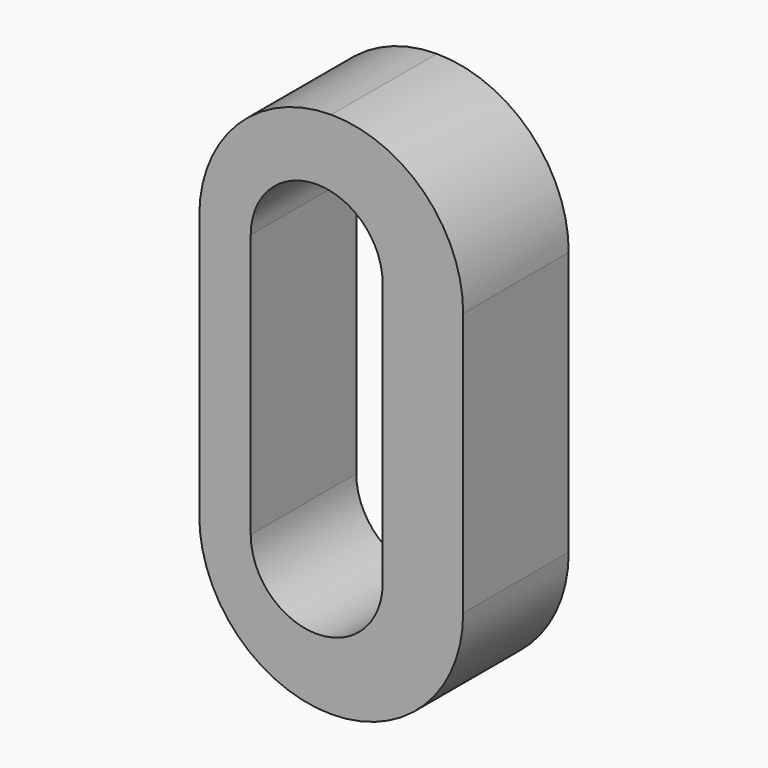
from build123d import *

# Parameters (mm, degrees)
F0_W     = 12.7
F0_H     = 25.4
F1_DEPTH = 6.35
F3_DEPTH = 254
F4_W     = 6.35
F4_H     = 12.7
F5_DEPTH = 254
F8_DEPTH = 25374.6


with BuildPart() as f1:
    # F0 (on Front) → F1 (new body)
    with BuildSketch(Plane.XZ):
        with Locations((-6.35, 12.7)):
            Rectangle(F0_W, F0_H)
    extrude(amount=F1_DEPTH)

    # F2 (on face) → F3 (cut)
    with BuildSketch(Plane.XZ.offset(6.35)):
        with BuildLine():
            Line((-12.7, 25.4), (-12.7, 19.05))
            ThreePointArc((-12.7, 19.05), (-10.8401280605, 23.5401280605), (-6.35, 25.4))
            Line((-6.35, 25.4), (-12.7, 25.4))
        make_face()
        with BuildLine():
            Line((0, 25.4), (-6.35, 25.4))
            ThreePointArc((-6.35, 25.4), (-1.8598719395, 23.5401280605), (0, 19.05))
            Line((0, 19.05), (0, 25.4))
        make_face()
        with BuildLine():
            ThreePointArc((0, 6.35), (-1.8598719395, 1.8598719395), (-6.35, 0))
            Line((-6.35, 0), (0, 0))
            Line((0, 0), (0, 6.35))
        make_face()
        with BuildLine():
            ThreePointArc((-6.35, 0), (-10.8401280605, 1.8598719395), (-12.7, 6.35))
            Line((-12.7, 6.35), (-12.7, 0))
            Line((-12.7, 0), (-6.35, 0))
        make_face()
    extrude(amount=-F3_DEPTH, mode=Mode.SUBTRACT)

    # F4 (on face) → F5 (cut)
    with BuildSketch(Plane.XZ.offset(6.35)):
        with BuildLine():
            Line((-8.8261451244, 19.05), (-2.4761451244, 19.05))
            ThreePointArc((-2.4761451244, 19.05), (-5.6511451244, 22.225), (-8.8261451244, 19.05))
        make_face()
        with Locations((-5.6511451244, 12.7)):
            Rectangle(F4_W, F4_H)
        with BuildLine():
            ThreePointArc((-8.8261451244, 6.35), (-5.6511451244, 3.175), (-2.4761451244, 6.35))
            Line((-2.4761451244, 6.35), (-8.8261451244, 6.35))
        make_face()
    extrude(amount=-F5_DEPTH, mode=Mode.SUBTRACT)

    # F6: F1 across plane


with BuildPart() as f1_1:
    add(f1.part)
    add(f1.part.mirror(Plane.YZ))

    # F7 (on face) → F8 (cut)
    with BuildSketch(Plane.XZ.offset(6.35)):
        with BuildLine():
            Line((0, 6.35), (0, 19.05))
            ThreePointArc((0, 19.05), (-6.35, 25.4), (-12.7, 19.05))
            Line((-12.7, 19.05), (-12.7, 6.35))
            ThreePointArc((-12.7, 6.35), (-6.35, 0), (0, 6.35))
        make_face()
        with BuildLine():
            Line((-8.8261451244, 6.35), (-8.8261451244, 19.05))
            ThreePointArc((-8.8261451244, 19.05), (-5.6511451244, 22.225), (-2.4761451244, 19.05))
            Line((-2.4761451244, 19.05), (-2.4761451244, 6.35))
            ThreePointArc((-2.4761451244, 6.35), (-5.6511451244, 3.175), (-8.8261451244, 6.35))
        make_face(mode=Mode.SUBTRACT)
    extrude(amount=-F8_DEPTH, mode=Mode.SUBTRACT)


solid = f1_1.part
